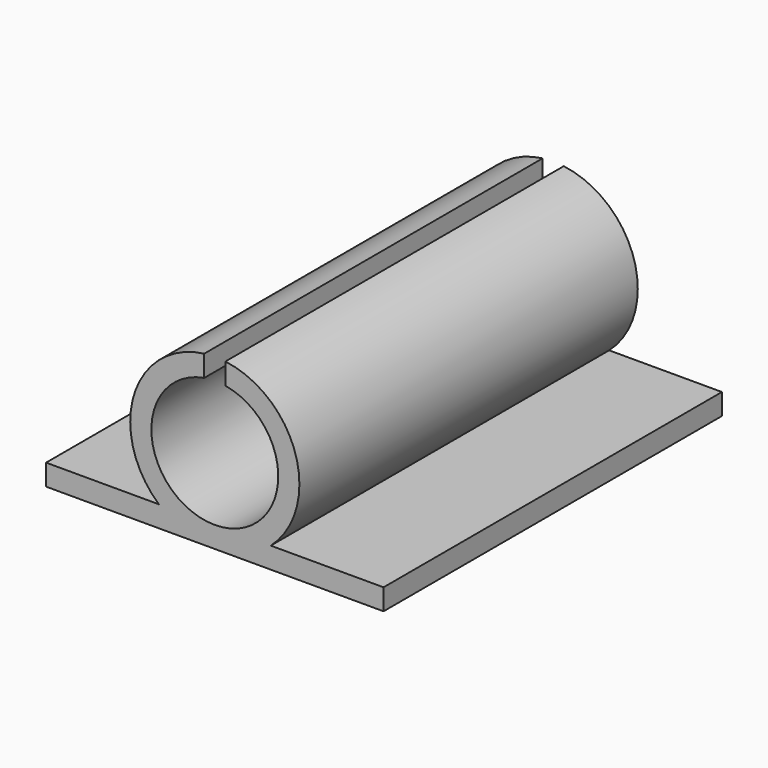
from build123d import *

# Parameters (mm, degrees)
F1_DEPTH = 20


with BuildPart() as f1:
    # F0 (on Front) → F1 (new body, symmetric)
    with BuildSketch(Plane.XZ):
        with BuildLine():
            ThreePointArc((1, 5.91608), (0, -6), (-1, 5.91608))
            Line((-1, 5.91608), (-1, 7.937254))
            ThreePointArc((-1, 7.937254), (-7.645751, 2.354249), (-5.291503, -6))
            Line((-5.291503, -6), (-15.957335, -6))
            Line((-15.957335, -6), (-15.957335, -8))
            Line((-15.957335, -8), (0, -8))
            Line((0, -8), (15.957335, -8))
            Line((15.957335, -8), (15.957335, -6))
            Line((15.957335, -6), (5.291503, -6))
            ThreePointArc((5.291503, -6), (7.645751, 2.354249), (1, 7.937254))
            Line((1, 7.937254), (1, 5.91608))
        make_face()
    extrude(amount=F1_DEPTH, both=True)


solid = f1.part
